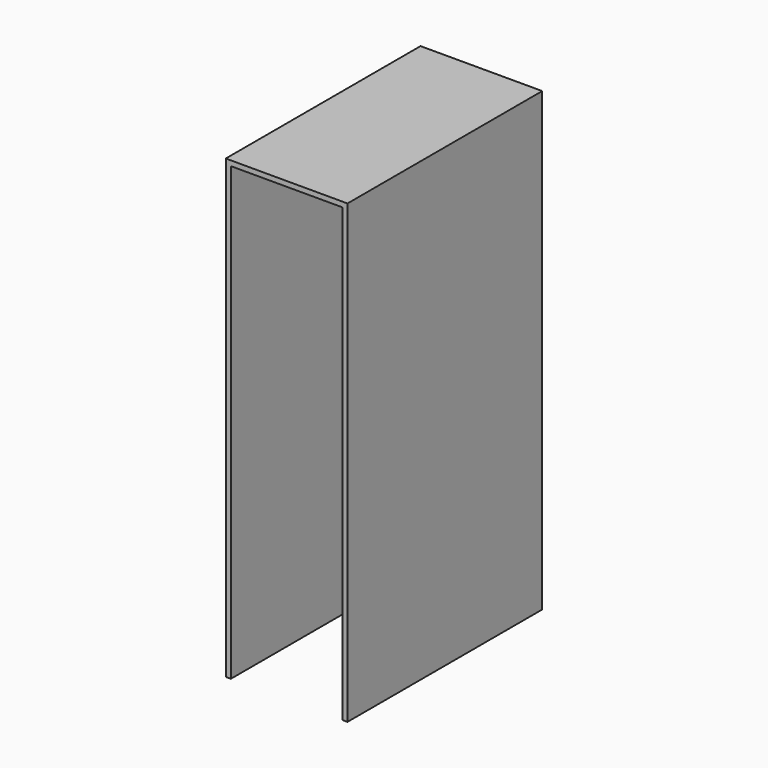
from build123d import *

# Parameters (mm, degrees)
F0_W     = 304.8
F0_H     = 609.6
F1_DEPTH = 1143
F2_T     = -12.7
F3_DEPTH = 12.701


with BuildPart() as f1:
    # F0 (on Top) → F1 (new body)
    with BuildSketch(Plane.XY):
        with Locations((152.4, -304.8)):
            Rectangle(F0_W, F0_H)
    extrude(amount=F1_DEPTH)

    # F2
    f2_openings = [f1.faces().sort_by_distance(p)[0] for p in [
        (152.4, -609.6, 571.5),
    ]]
    offset(amount=F2_T, openings=f2_openings)

    # F3 (cut, through all): a face of the model
    f3_faces = [f1.faces().sort_by_distance(p)[0] for p in [
        (152.4, -311.15, 12.7),
    ]]
    extrude(f3_faces, amount=-F3_DEPTH, mode=Mode.SUBTRACT)


solid = f1.part
